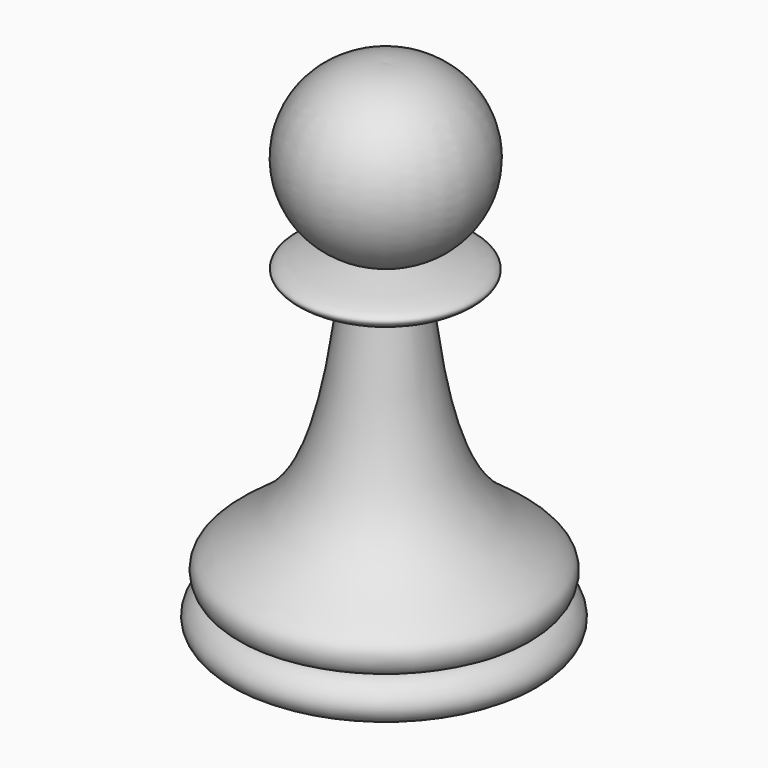
from build123d import *


with BuildPart() as f1:
    # F0 (on Front) → F1 (revolve)
    with BuildSketch(Plane.XZ):
        with BuildLine():
            Line((1.2512138486, 46.8405183069), (1.0586629063, 2.0092548802))
            Line((1.0586629063, 2.0092548802), (13.5420053828, 1.9622431137))
            add(Edge.make_bspline(
                [(13.5420053828, 1.9622431137), (14.391284436, 2.1400430705), (15.8762817494, 3.4969153493), (14.2431184649, 5.4095862433), (13.3562485452, 5.5056626507)],
                knots=[0, 0, 0, 0, 0.4814605649, 1, 1, 1, 1], degree=3))
            add(Edge.make_bspline(
                [(13.3562485452, 5.5056626507), (13.8356906153, 5.7094026307), (14.3920969483, 6.1487236183), (14.7231924331, 7.7077232804), (13.2319029137, 9.2712097327), (6.2937352055, 13.4881916011), (5.0580697187, 23.9062688387), (4.4722319581, 28.281243518)],
                knots=[0, 0, 0, 0, 0.1087570902, 0.2208493283, 0.354349544, 0.6224248583, 1, 1, 1, 1], degree=3))
            add(Edge.make_bspline(
                [(4.29865006, 32.4143286258), (5.0333567724, 32.2394560556), (6.7123967166, 31.8872629047), (10.9167905977, 30.6638700415), (6.5666371956, 29.1125737131), (4.4722319581, 28.281243518)],
                knots=[0, 0, 0, 0, 0.3001147448, 0.5833787303, 1, 1, 1, 1], degree=3))
            ThreePointArc((4.29865006, 32.4143286258), (9.0871791171, 40.9608435172), (1.2512138486, 46.8405183069))
        make_face()
    revolve(axis=Axis((1.1549383774, 0, 24.4248865936), (-0.0042949752, 0, -0.9999907766)))


solid = f1.part
